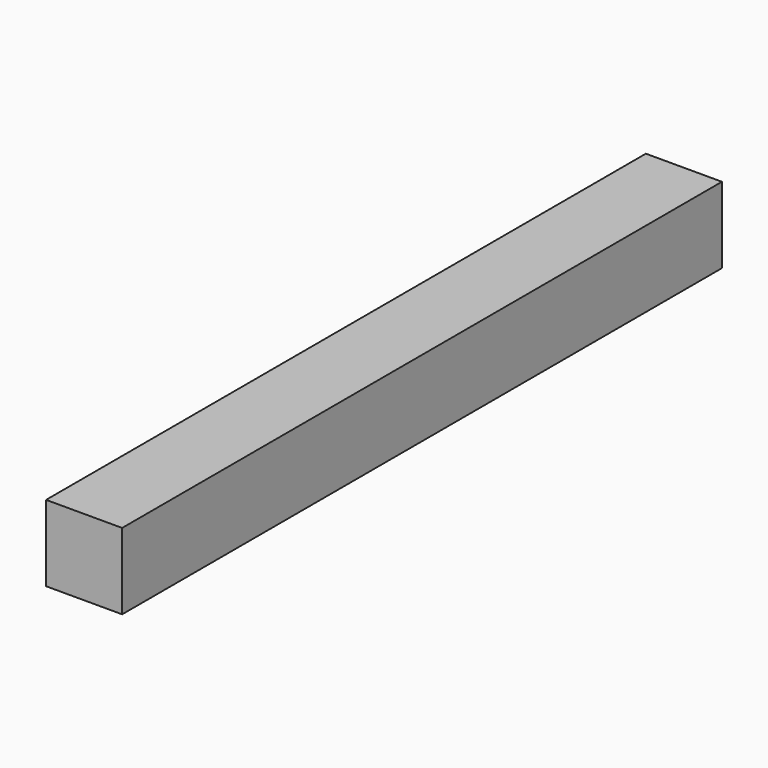
from build123d import *

# Parameters (mm, degrees)
F0_W     = 88.9
F0_H     = 88.9
F1_DEPTH = 876.3


with BuildPart() as f1:
    # F0 (on Front) → F1 (new body)
    with BuildSketch(Plane.XZ):
        Rectangle(F0_W, F0_H)
        Rectangle(F0_W, F0_H)
    extrude(amount=F1_DEPTH)


solid = f1.part
